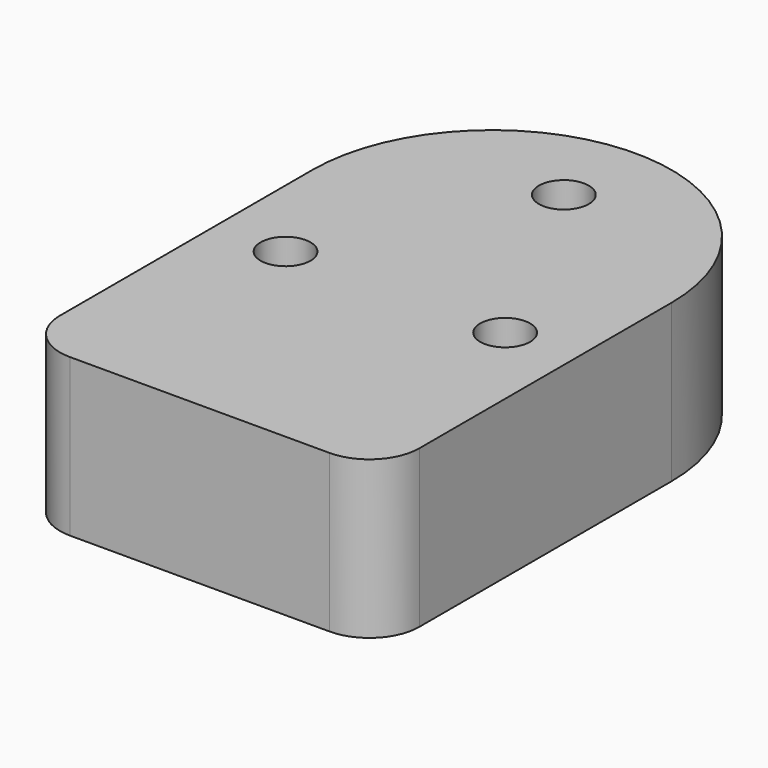
from build123d import *

# Parameters (mm, degrees)
F1_DEPTH = 15.75
F2_R     = 2.5
F3_DEPTH = 15.751


with BuildPart() as f1:
    # F0 (on Top) → F1 (new body)
    with BuildSketch(Plane.XY):
        with BuildLine():
            ThreePointArc((-18, -13.3), (-16.535534, -16.835534), (-13, -18.3))
            Line((-13, -18.3), (13, -18.3))
            ThreePointArc((13, -18.3), (16.535534, -16.835534), (18, -13.3))
            Line((18, -13.3), (18, 18.3))
            ThreePointArc((18, 18.3), (0, 36.3), (-18, 18.3))
            Line((-18, 18.3), (-18, -13.3))
        make_face()
    extrude(amount=F1_DEPTH)

    # F2 (on face) → F3 (cut, through all)
    with BuildSketch(Plane.XY.offset(15.75)):
        with Locations((0, 27.3)):
            Circle(F2_R)
        with Locations((-11, 6.2)):
            Circle(F2_R)
        with Locations((11, 6.2)):
            Circle(F2_R)
    extrude(amount=-F3_DEPTH, mode=Mode.SUBTRACT)


solid = f1.part
